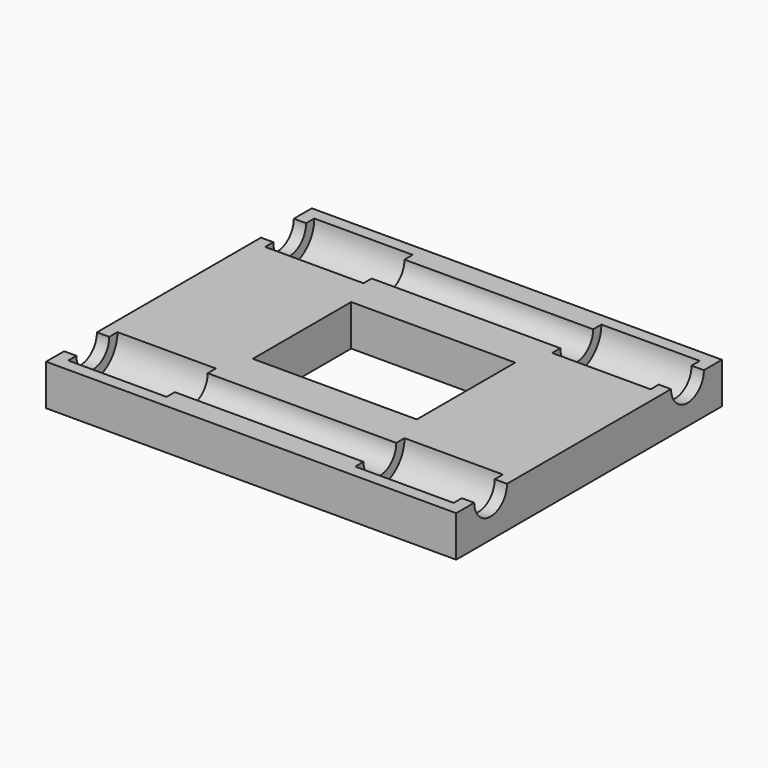
from build123d import *

# Parameters (mm, degrees)
F0_W     = 100
F0_H     = 60
F0_W_2   = 40
F0_H_2   = 30
F1_DEPTH = 10
F2_DEPTH = 10.001


with BuildPart() as f1:
    # F0 (on Top) → F1 (new body)
    with BuildSketch(Plane.XY):
        Polygon((50, -35), (50, -30), (-50, -30), (-50, -35), (-47, -35), (-47, -37.5), (-23, -37.5), (-23, -35), (0, -35), (23, -35), (23, -37.5), (47, -37.5), (47, -35), align=None)
        Rectangle(F0_W, F0_H)
        Rectangle(F0_W_2, F0_H_2, mode=Mode.SUBTRACT)
        Polygon((50, 30), (50, 35), (47, 35), (47, 37.5), (23, 37.5), (23, 35), (0, 35), (-23, 35), (-23, 37.5), (-47, 37.5), (-47, 35), (-50, 35), (-50, 30), align=None)
        Polygon((50, -40.5), (50, -35), (47, -35), (47, -37.5), (23, -37.5), (23, -35), (0, -35), (-23, -35), (-23, -37.5), (-47, -37.5), (-47, -35), (-50, -35), (-50, -40.5), align=None)
        Polygon((50, 35), (50, 40.5), (-50, 40.5), (-50, 35), (-47, 35), (-47, 37.5), (-23, 37.5), (-23, 35), (0, 35), (23, 35), (23, 37.5), (47, 37.5), (47, 35), align=None)
        Rectangle(F0_W_2, F0_H_2)
    extrude(amount=-F1_DEPTH)

    # F0 (on Top) → F2 (cut, through all)
    with BuildSketch(Plane.XY):
        Rectangle(F0_W_2, F0_H_2)
    extrude(amount=-F2_DEPTH, mode=Mode.SUBTRACT)

    # F0 (on Top) → F3 (revolve, cut)
    with BuildSketch(Plane.XY):
        Polygon((50, 30), (50, 35), (47, 35), (47, 37.5), (23, 37.5), (23, 35), (0, 35), (-23, 35), (-23, 37.5), (-47, 37.5), (-47, 35), (-50, 35), (-50, 30), align=None)
    revolve(axis=Axis((0, 30, 0), (1, 0, 0)), mode=Mode.SUBTRACT)

    # F0 (on Top) → F4 (revolve, cut)
    with BuildSketch(Plane.XY):
        Polygon((50, -35), (50, -30), (-50, -30), (-50, -35), (-47, -35), (-47, -37.5), (-23, -37.5), (-23, -35), (0, -35), (23, -35), (23, -37.5), (47, -37.5), (47, -35), align=None)
    revolve(axis=Axis((0, -30, 0), (1, 0, 0)), mode=Mode.SUBTRACT)


solid = f1.part
